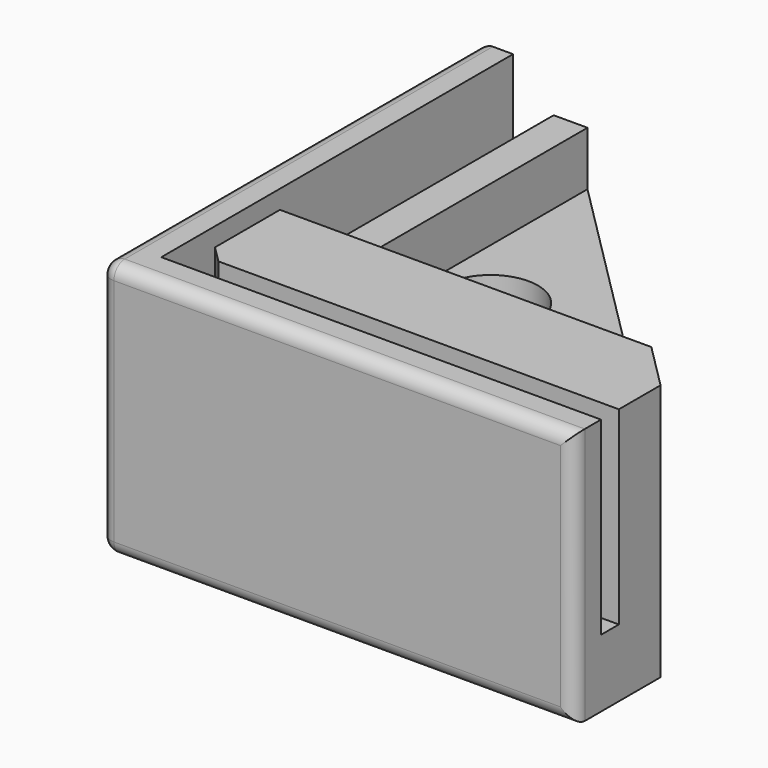
from build123d import *

# Parameters (mm, degrees)
F1_DEPTH  = 19
F3_DEPTH  = 14
F4_R      = 3.5
F5_DEPTH  = 7
F6_DEPTH  = 7
F7_DEPTH  = 25
F8_DEPTH  = 14
F9_R      = 1
F2_W      = 2.5
F2_H      = 20.5
F10_DEPTH = 3


with BuildPart() as f1:
    # F0 (on Top) → F1 (new body)
    with BuildSketch(Plane.XY):
        Polygon((0, 35), (0, 0), (35, 0), (35, 8), (8, 35), align=None)
    extrude(amount=F1_DEPTH)

    # F2 (on face) → F3 (cut)
    with BuildSketch(Plane.XY.offset(19)):
        Polygon((2.5, 2.5), (35, 2.5), (35, 4.15), (5.4, 4.15), (4.15, 5.4), (4.15, 11.4), (5.5, 11.4), (5.5, 13.5), (5.5, 14.5), (5.5, 35), (2.5, 35), align=None)
    extrude(amount=-F3_DEPTH, mode=Mode.SUBTRACT)

    # F4 (on face) → F5 (cut)
    with BuildSketch(Plane.XY):
        Polygon((18.7922096033, 22.0864700531), (14.1960155256, 26.6826641308), (7.9174976548, 25.0003403376), (6.2351738616, 18.7218224668), (10.8313679393, 14.125628389), (17.1098858102, 15.8079521822), align=None)
        with Locations((12.5136917325, 20.4041462599)):
            Circle(F4_R, mode=Mode.SUBTRACT)
    extrude(amount=F5_DEPTH, mode=Mode.SUBTRACT)

    # F2 (on face) → F6 (cut)
    with BuildSketch(Plane.XY.offset(19)):
        Polygon((8, 14.5), (5.5, 14.5), (5.5, 13.5), (29.5, 13.5), (8, 35), align=None)
    extrude(amount=-F6_DEPTH, mode=Mode.SUBTRACT)

    # F4 (on face) → F7 (cut)
    with BuildSketch(Plane.XY):
        with Locations((12.5136917325, 20.4041462599)):
            Circle(F4_R)
    extrude(amount=F7_DEPTH, mode=Mode.SUBTRACT)

    # F2 (on face) → F8 (cut)
    with BuildSketch(Plane.XY.offset(19)):
        Polygon((2.5, 2.5), (35, 2.5), (35, 4.15), (5.4, 4.15), (4.15, 5.4), (4.15, 11.4), (5.5, 11.4), (5.5, 13.5), (5.5, 14.5), (5.5, 35), (2.5, 35), align=None)
        Polygon((5.5, 11.4), (31.6, 11.4), (29.5, 13.5), (5.5, 13.5), align=None)
    extrude(amount=-F8_DEPTH, mode=Mode.SUBTRACT)

    # F9
    f9_edges = [f1.edges().sort_by_distance(p)[0] for p in [
        (0, 35, 9.5),
        (0, 0, 9.5),
        (0, 17.5, 0),
        (0, 17.5, 19),
        (35, 0, 9.5),
        (17.5, 0, 0),
        (17.5, 0, 19),
    ]]
    fillet(f9_edges, radius=F9_R)

    # F2 (on face) → F10 (cut)
    with BuildSketch(Plane.XY.offset(19)):
        with Locations((6.75, 24.75)):
            Rectangle(F2_W, F2_H)
    extrude(amount=-F10_DEPTH, mode=Mode.SUBTRACT)


solid = f1.part
